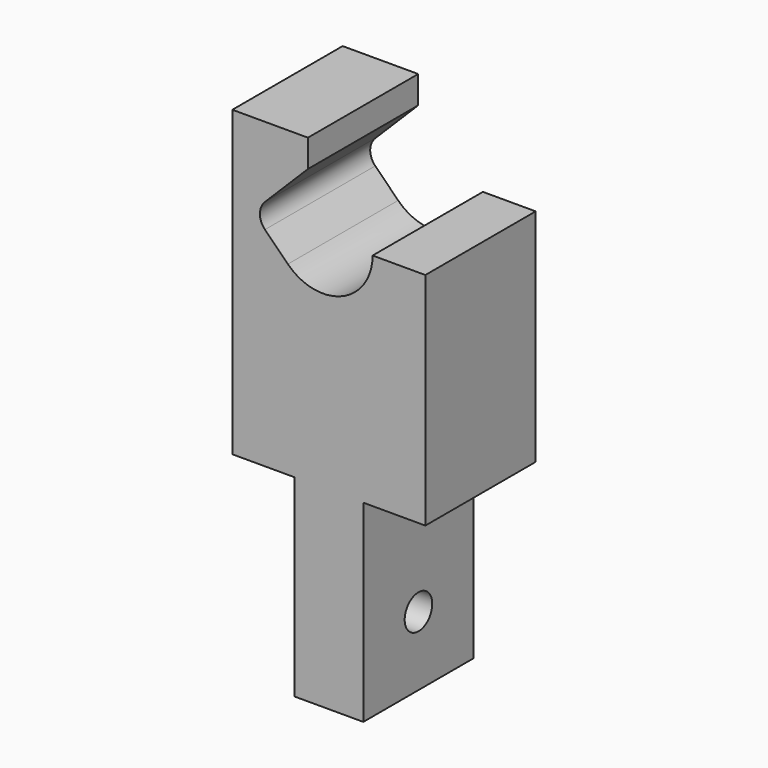
from build123d import *

# Parameters (mm, degrees)
F1_DEPTH = 6.35
F2_R     = 1.5875
F3_DEPTH = 12.066


with BuildPart() as f1:
    # F0 (on Front) → F1 (new body, symmetric)
    with BuildSketch(Plane.XZ):
        with BuildLine():
            Line((-3.175, -17.78), (3.175, -17.78))
            Line((3.175, -17.78), (3.175, 0))
            Line((3.175, 0), (8.89, 0))
            Line((8.89, 0), (8.89, 20.32))
            Line((8.89, 20.32), (4.03022, 20.32))
            ThreePointArc((4.03022, 20.32), (1.207849, 16.096023), (-3.774672, 17.087108))
            Line((-3.774672, 17.087108), (-5.885032, 19.197468))
            ThreePointArc((-5.885032, 19.197468), (-6.35, 20.32), (-5.885032, 21.442532))
            Line((-5.885032, 21.442532), (-1.927564, 25.4))
            Line((-1.927564, 25.4), (-1.927564, 27.94))
            Line((-1.927564, 27.94), (-8.89, 27.94))
            Line((-8.89, 27.94), (-8.89, 0))
            Line((-8.89, 0), (-3.175, 0))
            Line((-3.175, 0), (-3.175, -17.78))
        make_face()
    extrude(amount=F1_DEPTH, both=True)

    # F2 (on face) → F3 (cut, through all)
    with BuildSketch(Plane(origin=(-3.175, 0, 0), x_dir=(0, -1, 0), z_dir=(-1, 0, 0))):
        with Locations((0, -11.43)):
            Circle(F2_R)
    extrude(amount=-F3_DEPTH, mode=Mode.SUBTRACT)


solid = f1.part
